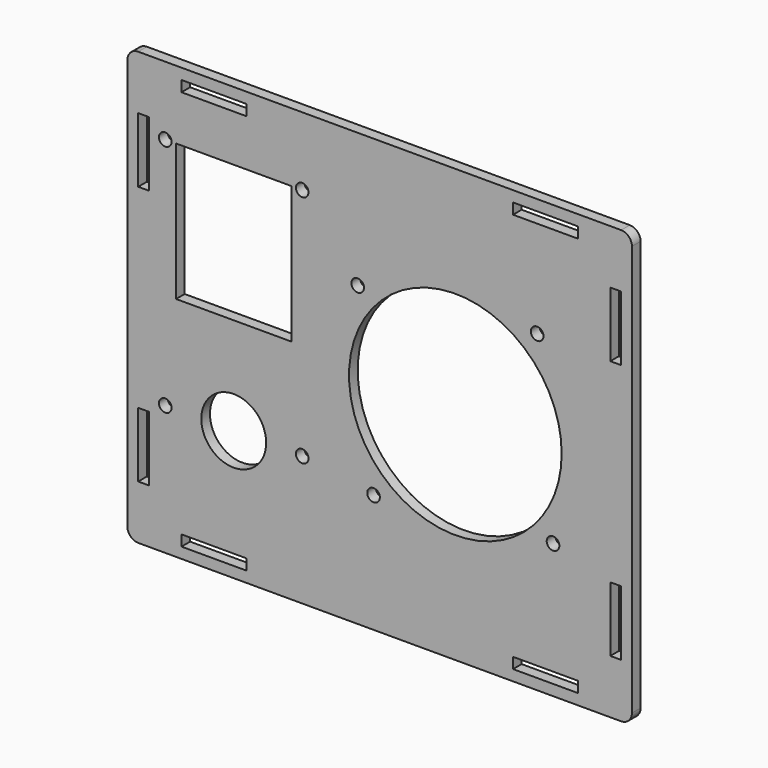
from build123d import *

# Parameters (mm, degrees)
F0_W     = 18
F0_H     = 3
F0_W_2   = 3
F0_H_2   = 18
F0_R     = 1.75
F0_R_2   = 9
F0_W_3   = 32
F0_H_3   = 38
F0_R_3   = 29.5
F1_DEPTH = 3


with BuildPart() as f1:
    # F0 (on Front) → F1 (new body)
    with BuildSketch(Plane.XZ):
        with BuildLine():
            Line((67, 60), (-67, 60))
            ThreePointArc((-67, 60), (-69.12132, 59.12132), (-70, 57))
            Line((-70, 57), (-70, -57))
            ThreePointArc((-70, -57), (-69.12132, -59.12132), (-67, -60))
            Line((-67, -60), (67, -60))
            ThreePointArc((67, -60), (69.12132, -59.12132), (70, -57))
            Line((70, -57), (70, 57))
            ThreePointArc((70, 57), (69.12132, 59.12132), (67, 60))
        make_face()
        with Locations((-46, -55.5)):
            Rectangle(F0_W, F0_H, mode=Mode.SUBTRACT)
        with Locations((-65.5, -36)):
            Rectangle(F0_W_2, F0_H_2, mode=Mode.SUBTRACT)
        with Locations((-59.5, -24)):
            Circle(F0_R, mode=Mode.SUBTRACT)
        with Locations((-40.5, -24)):
            Circle(F0_R_2, mode=Mode.SUBTRACT)
        with Locations((-21.5, -24)):
            Circle(F0_R, mode=Mode.SUBTRACT)
        with Locations((-1.7, -27.1)):
            Circle(F0_R, mode=Mode.SUBTRACT)
        with Locations((46, -55.5)):
            Rectangle(F0_W, F0_H, mode=Mode.SUBTRACT)
        with Locations((65.5, -36)):
            Rectangle(F0_W_2, F0_H_2, mode=Mode.SUBTRACT)
        with Locations((48.1, -22.7)):
            Circle(F0_R, mode=Mode.SUBTRACT)
        with Locations((-40.5, 22)):
            Rectangle(F0_W_3, F0_H_3, mode=Mode.SUBTRACT)
        with Locations((-6.1, 22.7)):
            Circle(F0_R, mode=Mode.SUBTRACT)
        with Locations((-65.5, 36)):
            Rectangle(F0_W_2, F0_H_2, mode=Mode.SUBTRACT)
        with Locations((-59.5, 41)):
            Circle(F0_R, mode=Mode.SUBTRACT)
        with Locations((-46, 55.5)):
            Rectangle(F0_W, F0_H, mode=Mode.SUBTRACT)
        with Locations((-21.5, 41)):
            Circle(F0_R, mode=Mode.SUBTRACT)
        with Locations((21, 0)):
            Circle(F0_R_3, mode=Mode.SUBTRACT)
        with Locations((43.7, 27.1)):
            Circle(F0_R, mode=Mode.SUBTRACT)
        with Locations((65.5, 36)):
            Rectangle(F0_W_2, F0_H_2, mode=Mode.SUBTRACT)
        with Locations((46, 55.5)):
            Rectangle(F0_W, F0_H, mode=Mode.SUBTRACT)
    extrude(amount=F1_DEPTH)


solid = f1.part
